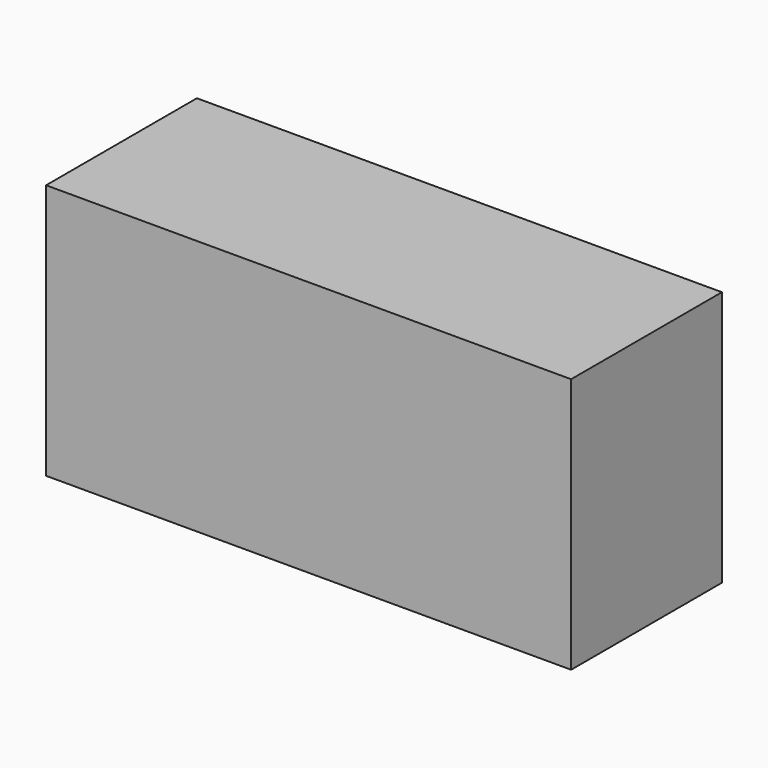
from build123d import *

# Parameters (mm, degrees)
BOX105_W     = 140
BOX105_H     = 80
BOX105_DEPTH = 180
BOX104_W     = 140
BOX104_H     = 80
BOX104_DEPTH = 180
BOX106_W     = 390
BOX106_H     = 140
BOX106_DEPTH = 190


with BuildPart() as cube077:
    # Box105 → Box105 (new body)
    with BuildSketch(Plane(origin=(220, 30, 0), x_dir=(1, 0, 0), z_dir=(0, 0, 1))):
        with Locations((70, 40)):
            Rectangle(BOX105_W, BOX105_H)
    extrude(amount=BOX105_DEPTH)


with BuildPart() as fusion018:
    # Box104 → Box104 (new body)
    with BuildSketch(Plane(origin=(30, 30, 0), x_dir=(1, 0, 0), z_dir=(0, 0, 1))):
        with Locations((70, 40)):
            Rectangle(BOX104_W, BOX104_H)
    extrude(amount=BOX104_DEPTH)

    # Fusion018: union Cube077
    add(cube077.part)


with BuildPart() as cut013:
    # Box106 → Box106 (new body)
    with BuildSketch(Plane.XY):
        with Locations((195, 70)):
            Rectangle(BOX106_W, BOX106_H)
    extrude(amount=BOX106_DEPTH)

    # Cut013: cut Fusion018
    add(fusion018.part, mode=Mode.SUBTRACT)


with BuildPart() as cut013_1:
    # Cut013 placement: moved
    add(cut013.part.moved(Location((340, 445, -190))))


solid = cut013_1.part
